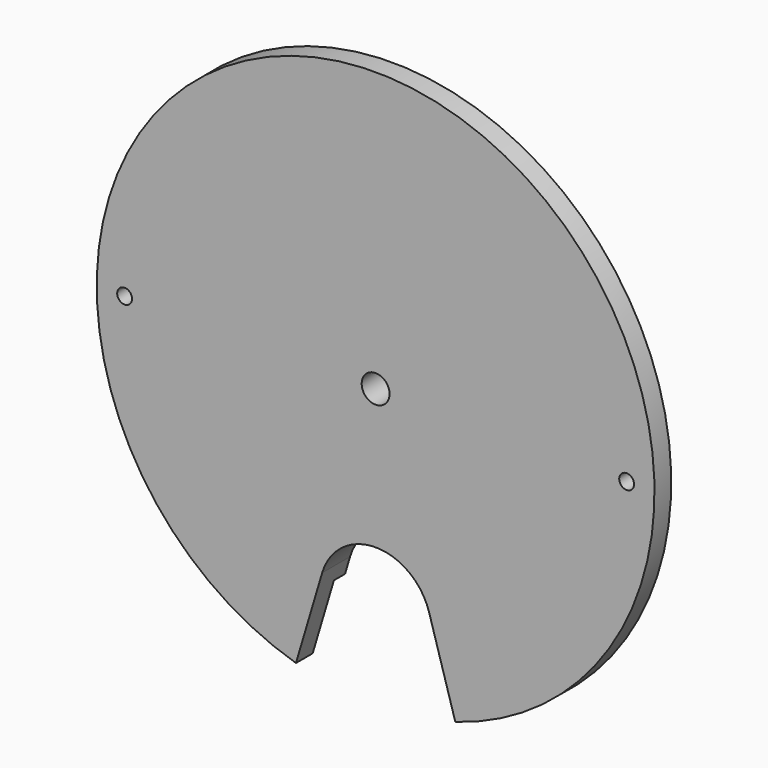
from build123d import *

# Parameters (mm, degrees)
F0_R     = 50.8
F1_DEPTH = 6.35
F2_R     = 50.8
F2_R_2   = 37.2745
F3_DEPTH = 2.54
F4_R     = 2.54
F4_R_2   = 1.35255
F5_DEPTH = 6.351
F7_DEPTH = 6.351
F8_R     = 1.5875
F9_DEPTH = 3.175


with BuildPart() as f1:
    # F0 (on Front) → F1 (new body)
    with BuildSketch(Plane.XZ):
        Circle(F0_R)
    extrude(amount=-F1_DEPTH)

    # F2 (on face) → F3 (cut)
    with BuildSketch(Plane(origin=(0, 6.35, 0), x_dir=(-1, 0, 0), z_dir=(0, 1, 0))):
        Circle(F2_R)
        Circle(F2_R_2, mode=Mode.SUBTRACT)
    extrude(amount=-F3_DEPTH, mode=Mode.SUBTRACT)

    # F4 (on face) → F5 (cut, through all)
    with BuildSketch(Plane.XZ):
        Circle(F4_R)
        with Locations((-45.72, 0)):
            Circle(F4_R_2)
        with Locations((45.72, 0)):
            Circle(F4_R_2)
    extrude(amount=-F5_DEPTH, mode=Mode.SUBTRACT)

    # F6 (on face) → F7 (cut, through all)
    with BuildSketch(Plane.XZ):
        with BuildLine():
            ThreePointArc((9.7364788506, -32.6571428571), (0, -25.4), (-9.7364788506, -32.6571428571))
            Line((-9.7364788506, -32.6571428571), (-14.5142857143, -48.682394253))
            ThreePointArc((-14.5142857143, -48.682394253), (0, -50.8), (14.5142857143, -48.682394253))
            Line((14.5142857143, -48.682394253), (9.7364788506, -32.6571428571))
        make_face()
    extrude(amount=-F7_DEPTH, mode=Mode.SUBTRACT)

    # F8 (on face) → F9 (cut)
    with BuildSketch(Plane(origin=(0, 3.81, 0), x_dir=(-1, 0, 0), z_dir=(0, 1, 0))):
        with Locations((0, 45.72)):
            Circle(F8_R)
        with Locations((39.594681461, -22.86)):
            Circle(F8_R)
        with Locations((-39.594681461, -22.86)):
            Circle(F8_R)
    extrude(amount=-F9_DEPTH, mode=Mode.SUBTRACT)


solid = f1.part
